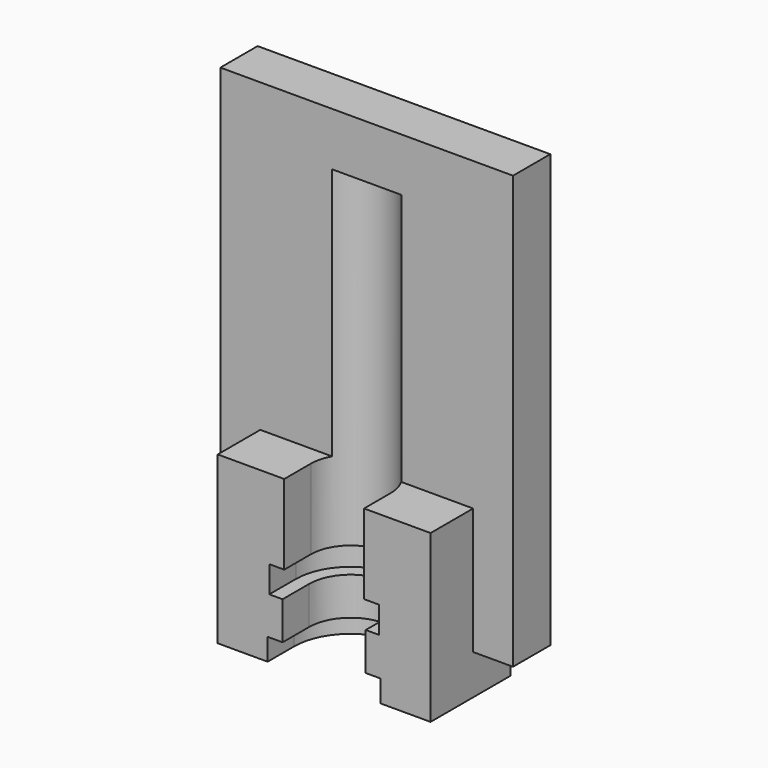
from build123d import *

# Parameters (mm, degrees)
F1_DEPTH  = 7
F2_W      = 32
F2_H      = 3
F3_DEPTH  = 25
F4_R      = 8.5
F5_DEPTH  = 3.3
F6_R      = 6.25
F7_DEPTH  = 5.7
F8_R      = 8.25
F9_DEPTH  = 4
F10_R     = 6
F11_DEPTH = 50
F12_DEPTH = 5


with BuildPart() as f1:
    # F0 (on Front) → F1 (new body)
    with BuildSketch(Plane.XZ):
        Polygon((-16, 0), (0, 0), (16, 0), (16, 6), (22, 6), (22, 71), (0, 71), (-22, 71), (-22, 6), (-16, 6), align=None)
    extrude(amount=F1_DEPTH)

    # F2 (on face) → F3 (join)
    with BuildSketch(Plane(origin=(0, 0, 0), x_dir=(1, 0, 0), z_dir=(0, 0, -1))):
        with Locations((0, 8.5)):
            Rectangle(F2_W, F2_H)
    extrude(amount=-F3_DEPTH)

    # F4 (on face) → F5 (cut)
    with BuildSketch(Plane(origin=(0, 0, 0), x_dir=(1, 0, 0), z_dir=(0, 0, -1))):
        with Locations((0, 10)):
            Circle(F4_R)
    extrude(amount=-F5_DEPTH, mode=Mode.SUBTRACT)

    # F6 (on face) → F7 (cut)
    with BuildSketch(Plane(origin=(0, 0, 3.3), x_dir=(1, 0, 0), z_dir=(0, 0, -1))):
        with Locations((0, 10)):
            Circle(F6_R)
    extrude(amount=-F7_DEPTH, mode=Mode.SUBTRACT)

    # F8 (on face) → F9 (cut)
    with BuildSketch(Plane(origin=(0, 0, 9), x_dir=(1, 0, 0), z_dir=(0, 0, -1))):
        with Locations((0, 10)):
            Circle(F8_R)
    extrude(amount=-F9_DEPTH, mode=Mode.SUBTRACT)

    # F10 (on face) → F11 (cut)
    with BuildSketch(Plane(origin=(0, 0, 13), x_dir=(1, 0, 0), z_dir=(0, 0, -1))):
        with Locations((0, 10)):
            Circle(F10_R)
    extrude(amount=-F11_DEPTH, mode=Mode.SUBTRACT)

    # F12 (add): faces of the model
    f12_faces = [f1.faces().sort_by_distance(p)[0] for p in [
        (-11.3145331244, -10, 12.9844320761),
        (11.3145331244, -10, 12.9844320761),
    ]]
    extrude(f12_faces, amount=F12_DEPTH)


solid = f1.part
